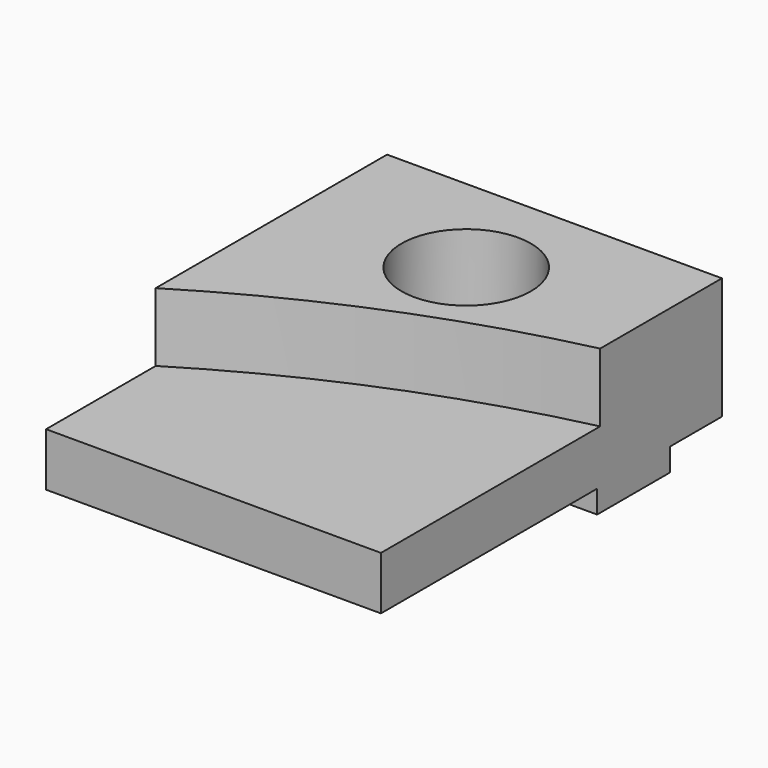
from build123d import *

# Parameters (mm, degrees)
F0_W     = 22
F0_H     = 28
F1_DEPTH = 3.5
F2_R     = 4.25
F2_R_2   = 1.75
F3_DEPTH = 2
F4_DEPTH = 3.501
F5_W     = 22
F5_H     = 6
F5_R     = 1.75
F6_DEPTH = 1.5
F7_DEPTH = 4.5


with BuildPart() as f1:
    # F0 (on Top) → F1 (new body)
    with BuildSketch(Plane.XY):
        with Locations((1.8137441948, -6.2994613256)):
            Rectangle(F0_W, F0_H)
    extrude(amount=F1_DEPTH)

    # F2 (on face) → F3 (cut)
    with BuildSketch(Plane.XY.offset(3.5)):
        with Locations((1.8137441948, 0.4505386744)):
            Circle(F2_R)
        with Locations((1.8137441948, 0.4505386744)):
            Circle(F2_R_2, mode=Mode.SUBTRACT)
    extrude(amount=-F3_DEPTH, mode=Mode.SUBTRACT)

    # F4 (cut, through all): a face of the model
    f4_faces = [f1.faces().sort_by_distance(p)[0] for p in [
        (1.8137441948, 0.4505386744, 3.5),
    ]]
    extrude(f4_faces, amount=-F4_DEPTH, mode=Mode.SUBTRACT)

    # F5 (on face) → F6 (join)
    with BuildSketch(Plane(origin=(0, 0, 0), x_dir=(1, 0, 0), z_dir=(0, 0, -1))):
        with Locations((1.8137441948, -0.4505386744)):
            Rectangle(F5_W, F5_H)
        with Locations((1.8137441948, -0.4505386744)):
            Circle(F5_R, mode=Mode.SUBTRACT)
    extrude(amount=F6_DEPTH)

    # F2 (on face) → F7 (join)
    with BuildSketch(Plane.XY.offset(3.5)):
        with BuildLine():
            ThreePointArc((-9.1862558052, -11.2994613256), (1.4435215802, -5.8944727122), (12.8137441948, -2.2994613256))
            Line((12.8137441948, -2.2994613256), (12.8137441948, 7.7005386744))
            Line((12.8137441948, 7.7005386744), (-9.1862558052, 7.7005386744))
            Line((-9.1862558052, 7.7005386744), (-9.1862558052, -11.2994613256))
        make_face()
        with Locations((1.8137441948, 0.4505386744)):
            Circle(F2_R, mode=Mode.SUBTRACT)
    extrude(amount=F7_DEPTH)


solid = f1.part
